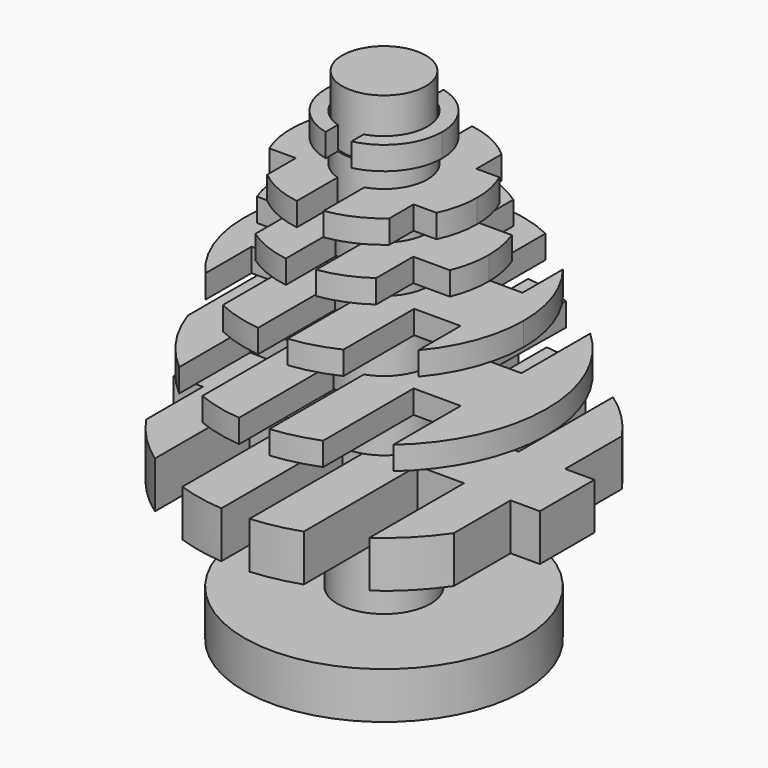
from build123d import *

# Parameters (mm, degrees)
F0_R      = 9.525
F1_DEPTH  = 3.175
F2_R      = 3.175
F3_DEPTH  = 6.35
F5_R      = 12.7
F5_R_2    = 3.175
F6_DEPTH  = 3.175
F7_W      = 3.175
F7_H      = 4.8381304848
F7_W_2    = 1.9255263601
F8_DEPTH  = 3.175
F9_R      = 3.181116102
F10_DEPTH = 3.175
F11_R     = 11.1125
F11_R_2   = 3.181116102
F12_DEPTH = 1.5875
F14_DEPTH = 1.5875
F4_R      = 6.35
F15_DEPTH = 1.5875
F16_R     = 3.0972472807
F17_DEPTH = 4.7625
F18_DEPTH = 25.4
F20_DEPTH = 1.5875
F21_R     = 3.0367301155
F22_DEPTH = 3.175
F24_DEPTH = 1.5875
F25_R     = 2.9386030195
F26_DEPTH = 3.175
F28_DEPTH = 1.5875
F29_R     = 2.9635986673
F30_DEPTH = 3.175
F32_DEPTH = 1.5875
F33_R     = 2.8467259411
F34_DEPTH = 3.96875


with BuildPart() as f1:
    # F0 (on Top) → F1 (new body)
    with BuildSketch(Plane.XY):
        Circle(F0_R)
    extrude(amount=F1_DEPTH)

    # F4 (on face) → F15 (cut)
    with BuildSketch(Plane(origin=(0, 0, 0), x_dir=(1, 0, 0), z_dir=(0, 0, -1))):
        Circle(F4_R)
    extrude(amount=-F15_DEPTH, mode=Mode.SUBTRACT)


with BuildPart() as f3:
    # F2 (on face) → F3 (new body)
    with BuildSketch(Plane.XY.offset(3.175)):
        Circle(F2_R)
    extrude(amount=F3_DEPTH)

    # F5 (on face) → F6 (join)
    with BuildSketch(Plane.XY.offset(9.525)):
        Circle(F5_R)
        Circle(F5_R_2, mode=Mode.SUBTRACT)
        Circle(F5_R_2)
    extrude(amount=F6_DEPTH)

    # F7 (on face) → F8 (cut)
    with BuildSketch(Plane.XY.offset(12.7)):
        with BuildLine():
            Line((-12.4855433797, -2.3240495939), (-12.4855433797, 2.3240495939))
            ThreePointArc((-12.4855433797, 2.3240495939), (-12.7, 0), (-12.4855433797, -2.3240495939))
        make_face()
        with BuildLine():
            Line((-10.48776318, 2.3240495939), (-10.48776318, 7.1621800787))
            ThreePointArc((-10.48776318, 7.1621800787), (-11.7386149191, 4.8471558446), (-12.4855433797, 2.3240495939))
            Line((-12.4855433797, 2.3240495939), (-10.48776318, 2.3240495939))
        make_face()
        with BuildLine():
            Line((-10.48776318, -7.1621800787), (-10.48776318, -2.3240495939))
            Line((-10.48776318, -2.3240495939), (-12.4855433797, -2.3240495939))
            ThreePointArc((-12.4855433797, -2.3240495939), (-11.7386149191, -4.8471558446), (-10.48776318, -7.1621800787))
        make_face()
        with BuildLine():
            Line((-4.13776318, -12.0070360983), (-4.13776318, -7.1621800787))
            Line((-4.13776318, -7.1621800787), (-7.31276318, -7.1621800787))
            Line((-7.31276318, -7.1621800787), (-7.31276318, -10.3833277263))
            ThreePointArc((-7.31276318, -10.3833277263), (-5.7825379982, -11.3071771146), (-4.13776318, -12.0070360983))
        make_face()
        with Locations((-5.72526318, -4.7431148363)):
            Rectangle(F7_W, F7_H)
        with Locations((-5.72526318, 4.7431148363)):
            Rectangle(F7_W, F7_H)
        with BuildLine():
            Line((-7.31276318, 7.1621800787), (-4.13776318, 7.1621800787))
            Line((-4.13776318, 7.1621800787), (-4.13776318, 12.0070360983))
            ThreePointArc((-4.13776318, 12.0070360983), (-5.7825379982, 11.3071771146), (-7.31276318, 10.3833277263))
            Line((-7.31276318, 10.3833277263), (-7.31276318, 7.1621800787))
        make_face()
        with BuildLine():
            Line((-0.96276318, 7.1621800787), (0.96276318, 7.1621800787))
            Line((0.96276318, 7.1621800787), (0.96276318, 12.6634547837))
            ThreePointArc((0.96276318, 12.6634547837), (0, 12.7), (-0.96276318, 12.6634547837))
            Line((-0.96276318, 12.6634547837), (-0.96276318, 7.1621800787))
        make_face()
        with Locations((0, 4.7431148363)):
            Rectangle(F7_W_2, F7_H)
        with Locations((0, -4.7431148363)):
            Rectangle(F7_W_2, F7_H)
        with BuildLine():
            Line((0.96276318, -12.6634547837), (0.96276318, -7.1621800787))
            Line((0.96276318, -7.1621800787), (-0.96276318, -7.1621800787))
            Line((-0.96276318, -7.1621800787), (-0.96276318, -12.6634547837))
            ThreePointArc((-0.96276318, -12.6634547837), (0, -12.7), (0.96276318, -12.6634547837))
        make_face()
        with BuildLine():
            Line((7.31276318, -10.3833277263), (7.31276318, -7.1621800787))
            Line((7.31276318, -7.1621800787), (4.13776318, -7.1621800787))
            Line((4.13776318, -7.1621800787), (4.13776318, -12.0070360983))
            ThreePointArc((4.13776318, -12.0070360983), (5.7825379982, -11.3071771146), (7.31276318, -10.3833277263))
        make_face()
        with Locations((5.72526318, -4.7431148363)):
            Rectangle(F7_W, F7_H)
        with BuildLine():
            Line((12.4855433797, -2.3240495939), (10.48776318, -2.3240495939))
            Line((10.48776318, -2.3240495939), (10.48776318, -7.1621800787))
            ThreePointArc((10.48776318, -7.1621800787), (11.7386149191, -4.8471558446), (12.4855433797, -2.3240495939))
        make_face()
        with BuildLine():
            ThreePointArc((12.4855433797, 2.3240495939), (11.7386149191, 4.8471558446), (10.48776318, 7.1621800787))
            Line((10.48776318, 7.1621800787), (10.48776318, 2.3240495939))
            Line((10.48776318, 2.3240495939), (12.4855433797, 2.3240495939))
        make_face()
        with Locations((5.72526318, 4.7431148363)):
            Rectangle(F7_W, F7_H)
        with BuildLine():
            Line((4.13776318, 7.1621800787), (7.31276318, 7.1621800787))
            Line((7.31276318, 7.1621800787), (7.31276318, 10.3833277263))
            ThreePointArc((7.31276318, 10.3833277263), (5.7825379982, 11.3071771146), (4.13776318, 12.0070360983))
            Line((4.13776318, 12.0070360983), (4.13776318, 7.1621800787))
        make_face()
        with BuildLine():
            ThreePointArc((12.7, 0), (12.6462721962, 1.16696167), (12.4855433797, 2.3240495939))
            Line((12.4855433797, 2.3240495939), (12.4855433797, -2.3240495939))
            ThreePointArc((12.4855433797, -2.3240495939), (12.6462721962, -1.16696167), (12.7, 0))
        make_face()
    extrude(amount=-F8_DEPTH, mode=Mode.SUBTRACT)

    # F9 (on face) → F10 (join)
    with BuildSketch(Plane.XY.offset(12.7)):
        Circle(F9_R)
    extrude(amount=F10_DEPTH)


with BuildPart() as f12:
    # F11 (on face) → F12 (new body)
    with BuildSketch(Plane.XY.offset(15.875)):
        Circle(F11_R)
        Circle(F11_R_2, mode=Mode.SUBTRACT)
    extrude(amount=F12_DEPTH)

    # F13 (on face) → F14 (cut)
    with BuildSketch(Plane.XY.offset(17.4625)):
        with BuildLine():
            ThreePointArc((1.035659574, -3.0078079894), (0, -3.181116102), (-1.035659574, -3.0078079894))
            Line((-1.035659574, -3.0078079894), (-1.035659574, -11.0641341955))
            Line((-1.035659574, -11.0641341955), (1.035659574, -11.0641341955))
            Line((1.035659574, -11.0641341955), (1.035659574, -3.0078079894))
        make_face()
        Polygon((4.1101887827, -2.6137192161), (4.1101887827, -10.3244372448), (7.320123259, -8.3608284113), (7.320123259, -2.6137192161), align=None)
        Polygon((-7.1719377302, -8.4882840106), (-4.1324272883, -10.3155562602), (-4.1324272883, -2.4831609335), (-7.1719377302, -2.4396413937), align=None)
        with BuildLine():
            Line((-10.5294523464, -3.5522231819), (-10.5294523464, 3.5522231819))
            ThreePointArc((-10.5294523464, 3.5522231819), (-11.1125, 0), (-10.5294523464, -3.5522231819))
        make_face()
        Polygon((-4.0820389986, 2.2604848803), (-4.0820389986, 10.3355993471), (-7.3100208257, 8.3696625844), (-7.3100208257, 2.2604848803), align=None)
        with BuildLine():
            Line((-0.9735882858, 11.0697688368), (-0.9735882858, 3.0284691684))
            ThreePointArc((-0.9735882858, 3.0284691684), (0, 3.181116102), (0.9735882858, 3.0284691684))
            Line((0.9735882858, 3.0284691684), (0.9735882858, 11.0697688368))
            Line((0.9735882858, 11.0697688368), (-0.9735882858, 11.0697688368))
        make_face()
        Polygon((7.4942023493, 8.205156147), (4.1584096834, 10.3051096624), (4.0561459027, 2.3475259077), (7.4942023493, 2.3475259077), align=None)
        with BuildLine():
            ThreePointArc((7.4942023493, 8.205156147), (5.9201598786, 9.4042205026), (4.1584096834, 10.3051096624))
            Line((4.1584096834, 10.3051096624), (7.4942023493, 8.205156147))
        make_face()
        with BuildLine():
            Line((1.035659574, -11.0641341955), (-1.035659574, -11.0641341955))
            ThreePointArc((-1.035659574, -11.0641341955), (0, -11.1125), (1.035659574, -11.0641341955))
        make_face()
        with BuildLine():
            Line((7.320123259, -8.3608284113), (4.1101887827, -10.3244372448))
            ThreePointArc((4.1101887827, -10.3244372448), (5.7988747404, -9.4794888045), (7.320123259, -8.3608284113))
        make_face()
        with BuildLine():
            Line((-7.3100208257, 8.3696625844), (-4.0820389986, 10.3355993471))
            ThreePointArc((-4.0820389986, 10.3355993471), (-5.7802234904, 9.4908731237), (-7.3100208257, 8.3696625844))
        make_face()
        with BuildLine():
            ThreePointArc((0.9735882858, 11.0697688368), (0, 11.1125), (-0.9735882858, 11.0697688368))
            Line((-0.9735882858, 11.0697688368), (0.9735882858, 11.0697688368))
        make_face()
    extrude(amount=-F14_DEPTH, mode=Mode.SUBTRACT)

    # F18 (cut): a face of the model
    f18_faces = [f12.faces().sort_by_distance(p)[0] for p in [
        (-5.6815448177, -9.4507618136, 17.4625),
    ]]
    extrude(f18_faces, amount=-F18_DEPTH, mode=Mode.SUBTRACT)


with BuildPart() as f17:
    # F16 (on face) → F17 (new body)
    with BuildSketch(Plane.XY.offset(15.875)):
        Circle(F16_R)
    extrude(amount=F17_DEPTH)

    # F21 (on face) → F22 (join)
    with BuildSketch(Plane.XY.offset(20.6375)):
        Circle(F21_R)
    extrude(amount=F22_DEPTH)

    # F25 (on face) → F26 (join)
    with BuildSketch(Plane.XY.offset(23.8125)):
        Circle(F25_R)
    extrude(amount=F26_DEPTH)


with BuildPart() as f20:
    # F19 (on face) → F20 (new body)
    with BuildSketch(Plane.XY.offset(20.6375)):
        with BuildLine():
            ThreePointArc((7.2727412917, -6.150842146), (8.9442295868, -3.2751155855), (9.525, 0))
            ThreePointArc((9.525, 0), (8.9935888262, 3.1370344316), (7.4586514384, 5.9240310365))
            Line((7.4586514384, 5.9240310365), (7.4586514384, 2.4820052428))
            Line((7.4586514384, 2.4820052428), (4.1484961993, 2.4820052428))
            Line((4.1484961993, 2.4820052428), (4.1484961993, 8.5741241118))
            ThreePointArc((4.1484961993, 8.5741241118), (2.6019599497, 9.1627195428), (0.976893119, 9.4747720202))
            Line((0.976893119, 9.4747720202), (0.976893119, 2.9391530331))
            ThreePointArc((0.976893119, 2.9391530331), (2.5118340186, 1.8120790768), (3.0972472807, 0))
            ThreePointArc((3.0972472807, 0), (2.5206225997, -1.7998339999), (1.0054527717, -2.9295060064))
            Line((1.0054527717, -2.9295060064), (1.0054527717, -9.4717838723))
            ThreePointArc((1.0054527717, -9.4717838723), (2.5965104083, -9.1642653115), (4.1124126563, -8.5914892274))
            Line((4.1124126563, -8.5914892274), (4.1124126563, -2.5662875476))
            Line((4.1124126563, -2.5662875476), (7.2727412917, -2.5662875476))
            Line((7.2727412917, -2.5662875476), (7.2727412917, -6.150842146))
        make_face()
    extrude(amount=F20_DEPTH)


with BuildPart() as f20b:
    # F19 (on face) → F20, piece 2 (new body)
    with BuildSketch(Plane.XY.offset(20.6375)):
        with BuildLine():
            Line((-0.976893119, 2.9391530331), (-0.976893119, 9.4747720202))
            ThreePointArc((-0.976893119, 9.4747720202), (-2.5726623741, 9.1709886768), (-4.0936054879, 8.6004662147))
            Line((-4.0936054879, 8.6004662147), (-4.0936054879, 2.3896271433))
            Line((-4.0936054879, 2.3896271433), (-7.2816526517, 2.3896271433))
            Line((-7.2816526517, 2.3896271433), (-7.2816526517, 6.1402898677))
            ThreePointArc((-7.2816526517, 6.1402898677), (-9.5242446355, -0.1199546699), (-7.1246976491, -6.3217330226))
            Line((-7.1246976491, -6.3217330226), (-7.1246976491, -2.3832521955))
            Line((-7.1246976491, -2.3832521955), (-4.1120257229, -2.3832521955))
            Line((-4.1120257229, -2.3832521955), (-4.1120257229, -8.5916744267))
            ThreePointArc((-4.1120257229, -8.5916744267), (-2.5963040451, -9.1643237779), (-1.0054527717, -9.4717838723))
            Line((-1.0054527717, -9.4717838723), (-1.0054527717, -2.9295060064))
            ThreePointArc((-1.0054527717, -2.9295060064), (-3.097210606, 0.0150724823), (-0.976893119, 2.9391530331))
        make_face()
    extrude(amount=F20_DEPTH)


with BuildPart() as f24:
    # F23 (on face) → F24 (new body)
    with BuildSketch(Plane.XY.offset(23.8125)):
        with BuildLine():
            Line((-0.9724656619, 2.8768107916), (-0.9724656619, 7.0772504971))
            ThreePointArc((-0.9724656619, 7.0772504971), (-2.6313105433, 6.6414884542), (-4.1384813576, 5.8228975704))
            Line((-4.1384813576, 5.8228975704), (-4.1384813576, 2.4234510493))
            Line((-4.1384813576, 2.4234510493), (-6.7201226979, 2.4234510493))
            ThreePointArc((-6.7201226979, 2.4234510493), (-7.1437352362, -0.0145236793), (-6.7102131177, -2.4507557973))
            Line((-6.7102131177, -2.4507557973), (-4.08159153, -2.4507557973))
            Line((-4.08159153, -2.4507557973), (-4.08159153, -5.8629152002))
            ThreePointArc((-4.08159153, -5.8629152002), (-2.6277404085, -6.6429018063), (-1.0337280226, -7.0685621195))
            Line((-1.0337280226, -7.0685621195), (-1.0337280226, -2.855369708))
            ThreePointArc((-1.0337280226, -2.855369708), (-3.0365567004, 0.032453031), (-0.9724656619, 2.8768107916))
        make_face()
    extrude(amount=F24_DEPTH)


with BuildPart() as f24b:
    # F23 (on face) → F24, piece 2 (new body)
    with BuildSketch(Plane.XY.offset(23.8125)):
        with BuildLine():
            ThreePointArc((6.6266921395, -2.6683544274), (7.0132943769, -1.3589944979), (7.14375, 0))
            ThreePointArc((7.14375, 0), (7.0247199335, 1.2986431064), (6.6715963222, 2.5540099014))
            Line((6.6715963222, 2.5540099014), (4.1809911842, 2.5540099014))
            Line((4.1809911842, 2.5540099014), (4.1809911842, 5.7924499808))
            ThreePointArc((4.1809911842, 5.7924499808), (2.6555992653, 6.6318139754), (0.9724656619, 7.0772504971))
            Line((0.9724656619, 7.0772504971), (0.9724656619, 2.8768107916))
            ThreePointArc((0.9724656619, 2.8768107916), (2.4672703091, 1.7703974176), (3.0367301155, 0))
            ThreePointArc((3.0367301155, 0), (2.486049357, -1.743929009), (1.0337280226, -2.855369708))
            Line((1.0337280226, -2.855369708), (1.0337280226, -7.0685621195))
            ThreePointArc((1.0337280226, -7.0685621195), (2.6548555602, -6.6321117314), (4.1293563728, -5.8293721796))
            Line((4.1293563728, -5.8293721796), (4.1293563728, -2.6683544274))
            Line((4.1293563728, -2.6683544274), (6.6266921395, -2.6683544274))
        make_face()
    extrude(amount=F24_DEPTH)


with BuildPart() as f28:
    # F27 (on face) → F28 (new body)
    with BuildSketch(Plane.XY.offset(26.9875)):
        with BuildLine():
            Line((-0.9836181164, 2.7690942757), (-0.9836181164, 6.2733559919))
            ThreePointArc((-0.9836181164, 6.2733559919), (-2.6906821887, 5.7517588057), (-4.1851387359, 4.7756794031))
            Line((-4.1851387359, 4.7756794031), (-4.1851387359, 2.4858700408))
            Line((-4.1851387359, 2.4858700408), (-5.843196911, 2.4858700408))
            ThreePointArc((-5.843196911, 2.4858700408), (-6.349986606, 0.0130423813), (-5.8533591375, -2.4618462194))
            Line((-5.8533591375, -2.4618462194), (-4.0419878307, -2.4618462194))
            Line((-4.0419878307, -2.4618462194), (-4.0419878307, -4.897431406))
            ThreePointArc((-4.0419878307, -4.897431406), (-2.5736678678, -5.8050610424), (-0.9151588075, -6.283707851))
            Line((-0.9151588075, -6.283707851), (-0.9151588075, -2.792467021))
            ThreePointArc((-0.9151588075, -2.792467021), (-2.9383804154, -0.0361696081), (-0.9836181164, 2.7690942757))
        make_face()
    extrude(amount=F28_DEPTH)


with BuildPart() as f28b:
    # F27 (on face) → F28, piece 2 (new body)
    with BuildSketch(Plane.XY.offset(26.9875)):
        with BuildLine():
            ThreePointArc((5.7436111321, -2.7080308646), (6.1965486639, -1.3875462715), (6.35, 0))
            ThreePointArc((6.35, 0), (6.2109912574, 1.3213960801), (5.8000511494, 2.5849384256))
            Line((5.8000511494, 2.5849384256), (4.2347479194, 2.5849384256))
            Line((4.2347479194, 2.5849384256), (4.2347479194, 4.7317449276))
            ThreePointArc((4.2347479194, 4.7317449276), (2.7206574921, 5.737640875), (0.9836181164, 6.2733559919))
            Line((0.9836181164, 6.2733559919), (0.9836181164, 2.7690942757))
            ThreePointArc((0.9836181164, 2.7690942757), (2.4006093886, 1.6948339947), (2.9386030195, 0))
            ThreePointArc((2.9386030195, 0), (2.3795667821, -1.724253356), (0.9151588075, -2.792467021))
            Line((0.9151588075, -2.792467021), (0.9151588075, -6.283707851))
            ThreePointArc((0.9151588075, -6.283707851), (2.6592846242, -5.7663424532), (4.1851382703, -4.7756798112))
            Line((4.1851382703, -4.7756798112), (4.1851382703, -2.7080308646))
            Line((4.1851382703, -2.7080308646), (5.7436111321, -2.7080308646))
        make_face()
    extrude(amount=F28_DEPTH)


with BuildPart() as f30:
    # F29 (on face) → F30 (new body)
    with BuildSketch(Plane.XY.offset(26.9875)):
        Circle(F29_R)
    extrude(amount=F30_DEPTH)

    # F33 (on face) → F34 (join)
    with BuildSketch(Plane.XY.offset(30.1625)):
        Circle(F33_R)
    extrude(amount=F34_DEPTH)


with BuildPart() as f32:
    # F31 (on face) → F32 (new body)
    with BuildSketch(Plane.XY.offset(30.1625)):
        with BuildLine():
            ThreePointArc((0.8803741611, -3.8698731115), (3.1020123722, -2.4755798927), (3.96875, 0))
            ThreePointArc((3.96875, 0), (3.1338054785, 2.4352083659), (0.9802827065, 3.845779814))
            Line((0.9802827065, 3.845779814), (0.9802827065, 2.7967772304))
            ThreePointArc((0.9802827065, 2.7967772304), (2.4174450959, 1.7143151021), (2.9635986673, 0))
            ThreePointArc((2.9635986673, 0), (2.3866286632, -1.7569634843), (0.8803741611, -2.8298159653))
            Line((0.8803741611, -2.8298159653), (0.8803741611, -3.8698731115))
        make_face()
    extrude(amount=F32_DEPTH)


with BuildPart() as f32b:
    # F31 (on face) → F32, piece 2 (new body)
    with BuildSketch(Plane.XY.offset(30.1625)):
        with BuildLine():
            Line((-0.9802827065, 2.7967772304), (-0.9802827065, 3.845779814))
            ThreePointArc((-0.9802827065, 3.845779814), (-3.9684173182, -0.051386293), (-0.8803741611, -3.8698731115))
            Line((-0.8803741611, -3.8698731115), (-0.8803741611, -2.8298159653))
            ThreePointArc((-0.8803741611, -2.8298159653), (-2.9631315769, -0.052614816), (-0.9802827065, 2.7967772304))
        make_face()
    extrude(amount=F32_DEPTH)


solid = Compound([f1.part, f3.part, f12.part, f17.part, f20.part, f20b.part, f24.part, f24b.part, f28.part, f28b.part, f30.part, f32.part, f32b.part])
